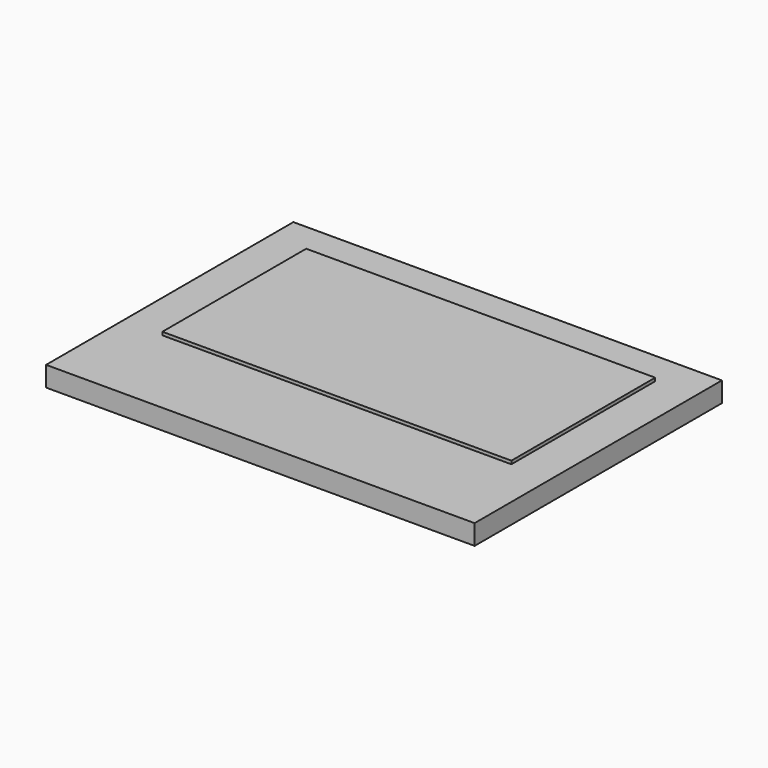
from build123d import *

# Parameters (mm, degrees)
BOX001_W     = 26.7
BOX001_H     = 19.26
BOX001_DEPTH = 1.25
BOX002_W     = 21.744
BOX002_H     = 11.2
BOX002_DEPTH = 0.2


with BuildPart() as controller:
    # Box001 → Box001 (new body)
    with BuildSketch(Plane(origin=(-13.35, 1, 0), x_dir=(1, 0, 0), z_dir=(0, 0, 1))):
        with Locations((13.35, 9.63)):
            Rectangle(BOX001_W, BOX001_H)
    extrude(amount=BOX001_DEPTH)


with BuildPart() as fusion:
    # Box002 → Box002 (new body)
    with BuildSketch(Plane(origin=(-10.87, 6.958, 1.25), x_dir=(1, 0, 0), z_dir=(0, 0, 1))):
        with Locations((10.872, 5.6)):
            Rectangle(BOX002_W, BOX002_H)
    extrude(amount=BOX002_DEPTH)

    # Fusion: union controller
    add(controller.part)


solid = fusion.part
